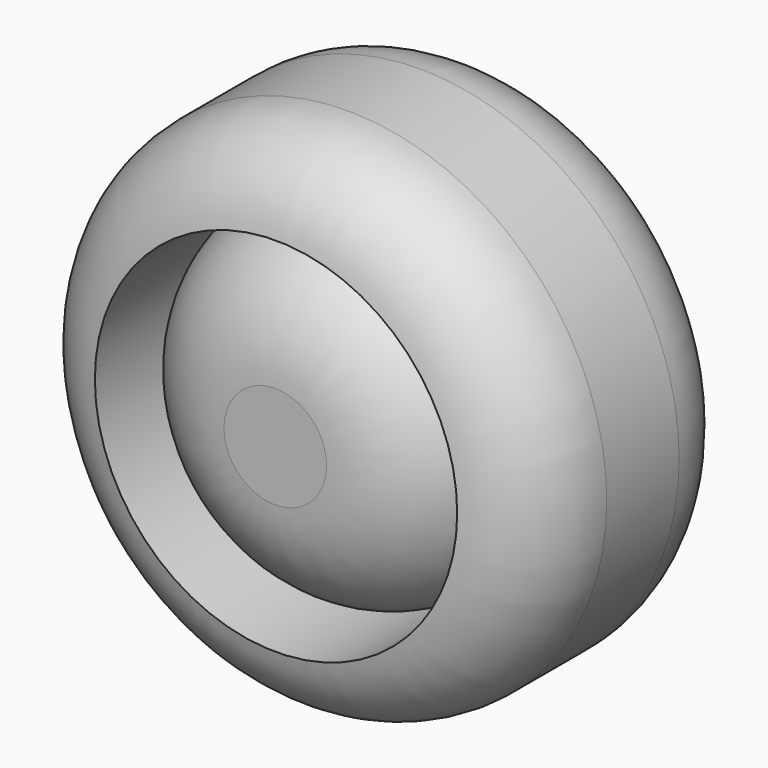
from build123d import *

# Parameters (mm, degrees)
F0_R     = 36.303067
F1_DEPTH = 38.1
F2_R     = 12.7
F3_D     = 50.8
F3_DEPTH = 76.2
F4_R     = 24.967235
F5_DEPTH = 38.1
F6_R     = 17.783097


with BuildPart() as f1:
    # F0 (on Front) → F1 (new body)
    with BuildSketch(Plane.XZ):
        Circle(F0_R)
    extrude(amount=F1_DEPTH)

    # F2
    f2_edges = [f1.edges().sort_by_distance(p)[0] for p in [
        (-36.303067, -38.1, 0),
        (-36.303067, 0, 0),
    ]]
    fillet(f2_edges, radius=F2_R)

    # F3
    with Locations(Plane(origin=(0, 0, 0), x_dir=(1, 0, 0), z_dir=(0, 1, 0))):
        with Locations((0, 0)):
            Hole(F3_D / 2, depth=F3_DEPTH)


with BuildPart() as f5:
    # F4 (on face) → F5 (new body)
    with BuildSketch(Plane.XZ):
        Circle(F4_R)
    extrude(amount=F5_DEPTH)

    # F6
    f6_edges = [f5.edges().sort_by_distance(p)[0] for p in [
        (-24.967235, -38.1, 0),
    ]]
    fillet(f6_edges, radius=F6_R)


solid = Compound([f1.part, f5.part])
